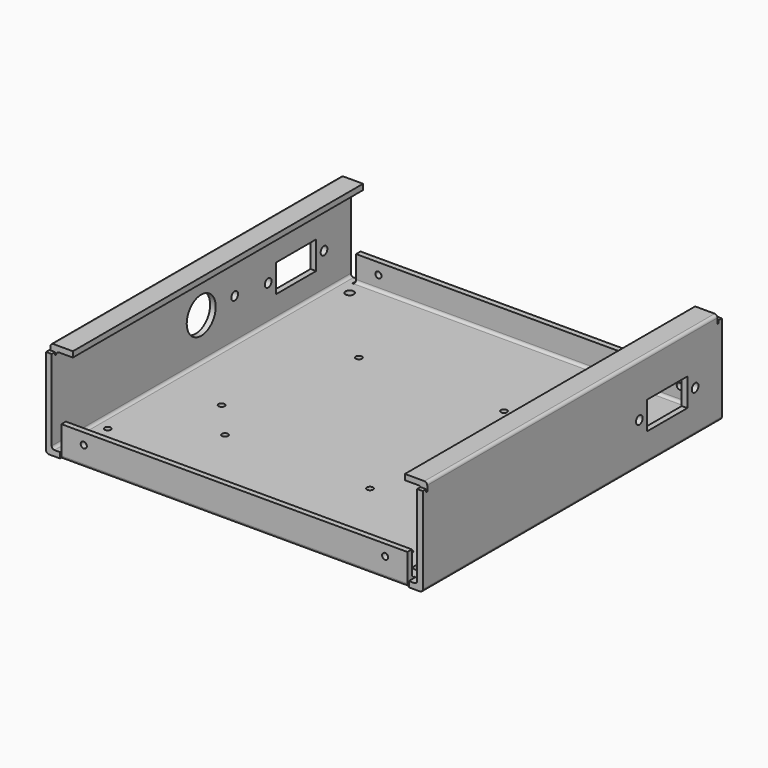
from build123d import *

# Parameters (mm, degrees)
F1_DEPTH  = 2
F2_W      = 2
F2_H      = 134
F3_DEPTH  = 30
F4_R      = 1
F5_W      = 8
F5_H      = 130
F6_DEPTH  = 2
F7_R      = 1
F8_W      = 124
F8_H      = 2
F9_DEPTH  = 9
F10_R     = 1
F11_W     = 0.5
F11_H     = 1
F12_DEPTH = 135.001
F13_R     = 1.5
F13_R_2   = 6.5
F13_W     = 18
F13_H     = 10
F14_DEPTH = 3
F15_R     = 1.1
F15_R_2   = 1.5
F16_DEPTH = 3
F17_R     = 1.1
F18_DEPTH = 134.001
F19_R     = 1.5
F19_W     = 18
F19_H     = 10
F20_DEPTH = 3


with BuildPart() as f1:
    # F0 (on Top) → F1 (new body)
    with BuildSketch(Plane.XY):
        Polygon((62.5, -67), (67.5, -67), (67.5, 67), (62.5, 67), (62.5, 64), (62, 64), (62, 67), (-62, 67), (-62, 64), (-62.5, 64), (-62.5, 67), (-67.5, 67), (-67.5, -67), (-62.5, -67), (-62.5, -64), (-62, -64), (-62, -67), (62, -67), (62, -64), (62.5, -64), align=None)
    extrude(amount=F1_DEPTH)

    # F2 (on face) → F3 (join)
    with BuildSketch(Plane.XY.offset(2)):
        with Locations((66.5, 0)):
            Rectangle(F2_W, F2_H)
        with Locations((-66.5, 0)):
            Rectangle(F2_W, F2_H)
    extrude(amount=F3_DEPTH)

    # F4
    f4_edges = [f1.edges().sort_by_distance(p)[0] for p in [
        (-67.5, 0, 0),
        (67.5, 0, 0),
        (-65.5, 0, 2),
        (65.5, 0, 2),
    ]]
    fillet(f4_edges, radius=F4_R)

    # F5 (on face) → F6 (join)
    with BuildSketch(Plane.XY.offset(32)):
        with Locations((-63.5, 0)):
            Rectangle(F5_W, F5_H)
        with Locations((63.5, 0)):
            Rectangle(F5_W, F5_H)
    extrude(amount=F6_DEPTH)

    # F7
    f7_edges = [f1.edges().sort_by_distance(p)[0] for p in [
        (-67.5, 0, 34),
        (67.5, 0, 34),
        (-65.5, 0, 32),
        (65.5, 0, 32),
    ]]
    fillet(f7_edges, radius=F7_R)

    # F8 (on face) → F9 (join)
    with BuildSketch(Plane.XY.offset(2)):
        with Locations((0, -66)):
            Rectangle(F8_W, F8_H)
        with Locations((0, 66)):
            Rectangle(F8_W, F8_H)
    extrude(amount=F9_DEPTH)

    # F10
    f10_edges = [f1.edges().sort_by_distance(p)[0] for p in [
        (0, -67, 0),
        (0, -65, 2),
        (0, 65, 2),
        (0, 67, 0),
    ]]
    fillet(f10_edges, radius=F10_R)

    # F11 (on face) → F12 (cut, through all)
    with BuildSketch(Plane(origin=(-67.5, 0, 0), x_dir=(0, -1, 0), z_dir=(-1, 0, 0))):
        with Locations((65.25, 31.5)):
            Rectangle(F11_W, F11_H)
        with Locations((-65.25, 31.5)):
            Rectangle(F11_W, F11_H)
    extrude(amount=-F12_DEPTH, mode=Mode.SUBTRACT)

    # F13 (on face) → F14 (cut)
    with BuildSketch(Plane(origin=(-67.5, 0, 0), x_dir=(0, -1, 0), z_dir=(-1, 0, 0))):
        with Locations((-55, 15)):
            Circle(F13_R)
        with Locations((-30, 15)):
            Circle(F13_R)
        with Locations((0, 17)):
            Circle(F13_R_2)
        with Locations((-15, 17)):
            Circle(F13_R)
        with Locations((-42.5, 15)):
            Rectangle(F13_W, F13_H)
    extrude(amount=-F14_DEPTH, mode=Mode.SUBTRACT)

    # F15 (on face) → F16 (cut)
    with BuildSketch(Plane.XY.offset(2)):
        with Locations((-33, 30)):
            Circle(F15_R)
        with Locations((19, 30)):
            Circle(F15_R)
        with Locations((-33, -30)):
            Circle(F15_R)
        with Locations((19, -30)):
            Circle(F15_R)
        with Locations((-45, -16.5)):
            Circle(F15_R)
        with Locations((-61, -47.5)):
            Circle(F15_R)
        with Locations((-59.5, 59)):
            Circle(F15_R_2)
        with Locations((59.5, 59)):
            Circle(F15_R_2)
        with Locations((-59.5, -59)):
            Circle(F15_R_2)
        with Locations((59.5, -59)):
            Circle(F15_R_2)
        with Locations((35.5, 30)):
            Circle(F15_R)
        with Locations((51.5, 30)):
            Circle(F15_R)
        with Locations((35.5, -53)):
            Circle(F15_R)
        with Locations((51.5, -53)):
            Circle(F15_R)
    extrude(amount=-F16_DEPTH, mode=Mode.SUBTRACT)

    # F17 (on face) → F18 (cut, through all)
    with BuildSketch(Plane.XZ.offset(67)):
        with Locations((54, 7)):
            Circle(F17_R)
        with Locations((-54, 7)):
            Circle(F17_R)
    extrude(amount=-F18_DEPTH, mode=Mode.SUBTRACT)

    # F19 (on face) → F20 (cut)
    with BuildSketch(Plane.YZ.offset(67.5)):
        with Locations((30, 15)):
            Circle(F19_R)
        with Locations((55, 15)):
            Circle(F19_R)
        with Locations((42.5, 15)):
            Rectangle(F19_W, F19_H)
    extrude(amount=-F20_DEPTH, mode=Mode.SUBTRACT)


solid = f1.part
